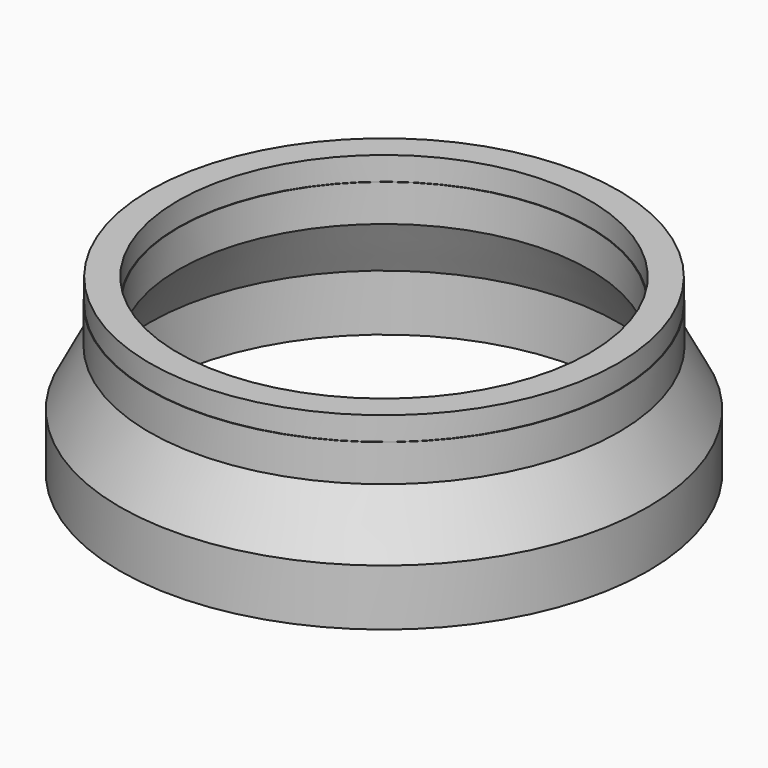
from build123d import *


with BuildPart() as f1:
    # F0 (on Front) → F1 (revolve)
    with BuildSketch(Plane.XZ):
        Polygon((-401, -258.865593), (-400, -258.865593), (-400, -162.865593), (-350, -66.865593), (-350, -3.865593), (-351, -3.865593), (-351, 36.134407), (-399, 36.134407), (-399, -3.865593), (-400, -3.865593), (-400, -66.865593), (-450, -162.865593), (-450, -258.865593), (-449, -258.865593), (-449, -218.865593), (-401, -218.865593), align=None)
    revolve(axis=Axis((0, 0, -0.829662), (0, 0, -1)))


solid = f1.part
